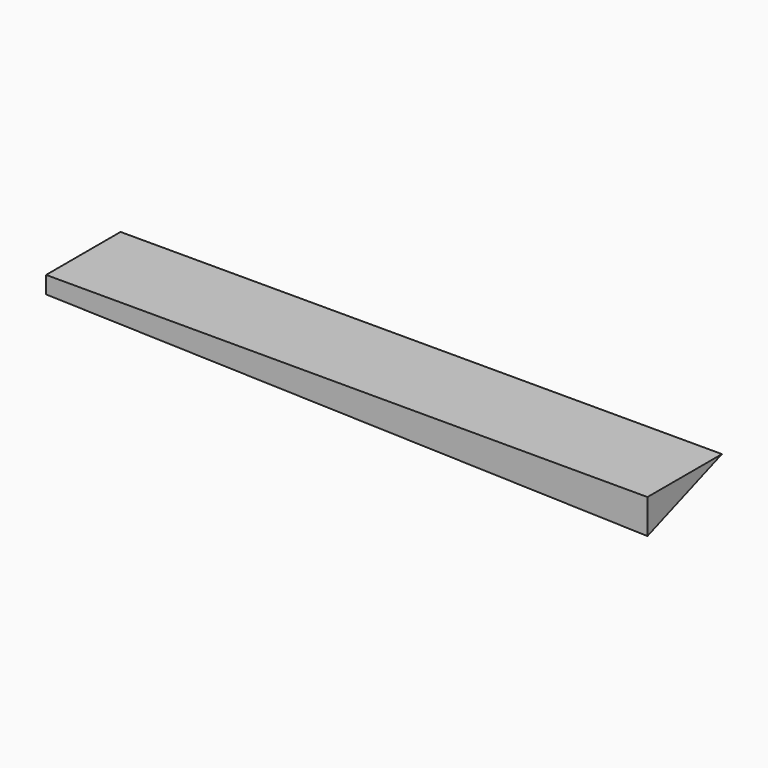
from build123d import *


with BuildPart() as f3:
    # F0 (on Right) → F3 section 0
    with BuildSketch(Plane.YZ):
        Polygon((1651, 0), (0, 0), (0, -304.8), align=None)
    # F2 (on offset) → F3 section 1
    with BuildSketch(Plane.YZ.offset(10668)):
        Polygon((1651, 0), (0, 0), (0, -609.6), align=None)
    loft()


solid = f3.part
